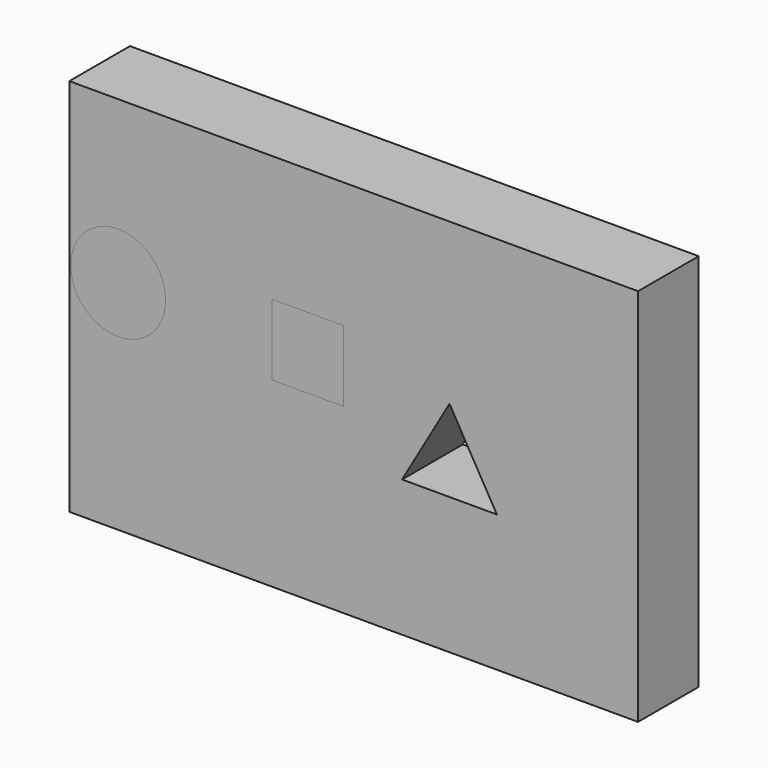
from build123d import *

# Parameters (mm, degrees)
F0_W     = 152.4
F0_H     = 101.6
F1_DEPTH = 20.32
F2_R     = 12.7
F3_DEPTH = 52.07
F4_DEPTH = 25.4


with BuildPart() as f1:
    # F0 (on Front) → F1 (new body)
    with BuildSketch(Plane.XZ):
        with Locations((-19.449437, -7.481951)):
            Rectangle(F0_W, F0_H)
    extrude(amount=F1_DEPTH)

    # F2 (on face) → F4 (cut)
    with BuildSketch(Plane.XZ.offset(20.32)):
        Polygon((6.224167, 0.339493), (6.02816, 0), (-6.475833, -21.657552), (18.924167, -21.657552), align=None)
    extrude(amount=-F4_DEPTH, mode=Mode.SUBTRACT)


with BuildPart() as f3:
    # F2 (on face) → F3 (new body)
    with BuildSketch(Plane.XZ.offset(20.32)):
        with Locations((-82.55, 0)):
            Circle(F2_R)
        Polygon((-22.225, -9.525), (-22.225, 0), (-31.75, 0), (-41.275, 0), (-41.275, -9.525), align=None)
        Polygon((-31.75, 0), (-22.225, 0), (-22.225, 9.525), (-41.275, 9.525), (-41.275, 0), align=None)
    extrude(amount=-F3_DEPTH)


solid = Compound([f1.part, f3.part])
